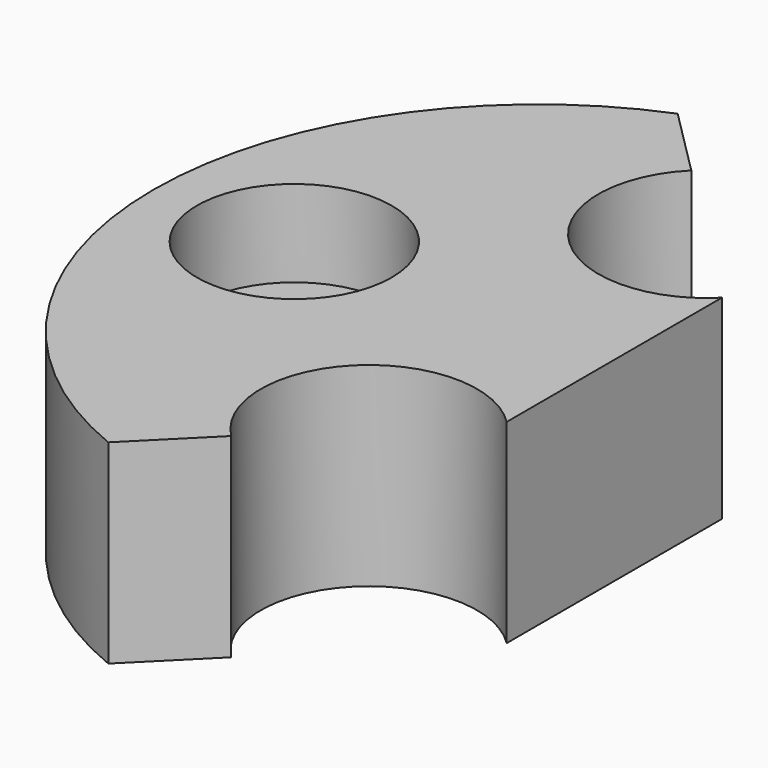
from build123d import *

# Parameters (mm, degrees)
F1_R      = 17.75
F1_R_2    = 5
F2_DEPTH  = 9
F3_R      = 2
F4_DEPTH  = 25
F5_R      = 4.5
F6_DEPTH  = 4
F7_R      = 4.9962350467
F8_DEPTH  = 9
F10_DEPTH = 25
F12_DEPTH = 25


with BuildPart() as f2:
    # F1 (on Top) → F2 (new body)
    with BuildSketch(Plane.XY):
        Circle(F1_R)
        with Locations((0, -9.75)):
            Circle(F1_R_2, mode=Mode.SUBTRACT)
        with BuildLine():
            ThreePointArc((0, 4.75), (-3.5355339059, 13.2855339059), (5, 9.75))
            ThreePointArc((5, 9.75), (3.5355339059, 6.2144660941), (0, 4.75))
        make_face(mode=Mode.SUBTRACT)
    extrude(amount=F2_DEPTH)

    # F3 (on face) → F4 (cut)
    with BuildSketch(Plane.XY.offset(9)):
        with BuildLine():
            ThreePointArc((9.25, 0), (11.25, -2), (13.25, 0))
            ThreePointArc((13.25, 0), (11.25, 2), (9.25, 0))
        make_face()
        with Locations((-11.25, 0)):
            Circle(F3_R)
    extrude(amount=-F4_DEPTH, mode=Mode.SUBTRACT)

    # F5 (on face) → F6 (cut)
    with BuildSketch(Plane.XY.offset(9)):
        with Locations((11.25, 0)):
            Circle(F5_R)
        with Locations((-11.25, 0)):
            Circle(F5_R)
    extrude(amount=-F6_DEPTH, mode=Mode.SUBTRACT)

    # F7 (on face) → F8 (join)
    with BuildSketch(Plane.XY.offset(9)):
        with Locations((11.25, 0)):
            Circle(F7_R)
    extrude(amount=-F8_DEPTH)

    # F9 (on face) → F10 (cut)
    with BuildSketch(Plane.XY.offset(9)):
        with BuildLine():
            ThreePointArc((8.35, 0), (9.5, -1.15), (10.65, 0))
            ThreePointArc((10.65, 0), (9.5, 1.15), (8.35, 0))
        make_face()
    extrude(amount=-F10_DEPTH, mode=Mode.SUBTRACT)

    # F11 (on face) → F12 (cut)
    with BuildSketch(Plane.XY.offset(9)):
        with BuildLine():
            Line((-7.4342581112, 17.1842581112), (0, 9.75))
            Line((0, 9.75), (3.5355339059, 6.2144660941))
            Line((3.5355339059, 6.2144660941), (3.5355339059, -6.2144660941))
            Line((3.5355339059, -6.2144660941), (0, -9.75))
            Line((0, -9.75), (-7.4342581112, -17.1842581112))
            ThreePointArc((-7.4342581112, -17.1842581112), (18.7234323909, 0), (-7.4342581112, 17.1842581112))
        make_face()
    extrude(amount=-F12_DEPTH, mode=Mode.SUBTRACT)


solid = f2.part
